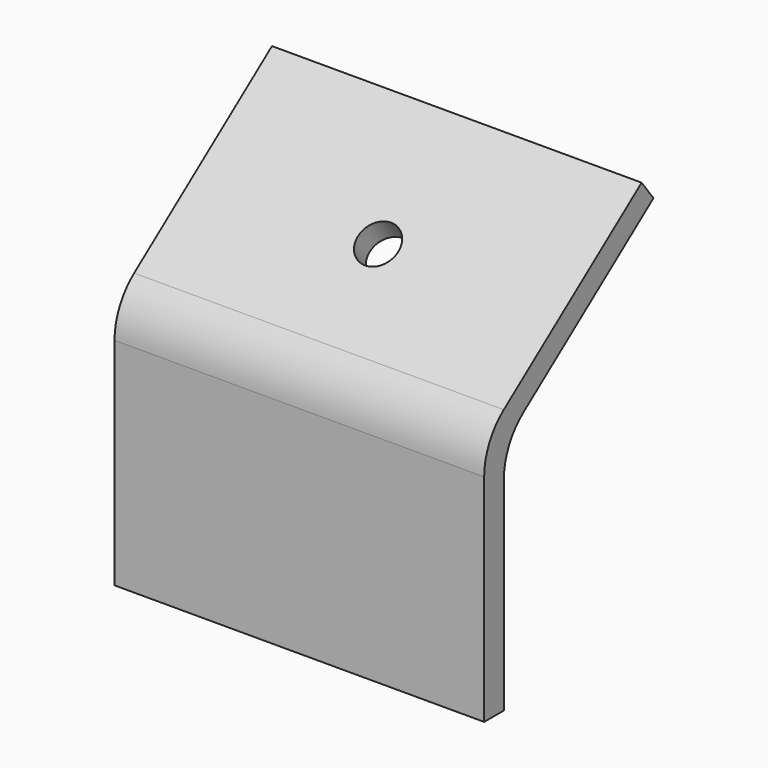
from build123d import *

# Parameters (mm, degrees)
F1_DEPTH = 30
F3_D     = 3.3
F4_R     = 5


with BuildPart() as f1:
    # F0 (on Right) → F1 (new body)
    with BuildSketch(Plane.YZ):
        Polygon((-15.9727102009, 16.1656831887), (-15.9727102009, -3.8343168113), (-13.9727102009, -3.8343168113), (-13.9727102009, 15.1685199726), (1.2036300463, 26.6047126317), (0, 28.2019836518), align=None)
    extrude(amount=F1_DEPTH)

    # F3 (through all)
    with Locations(Plane(origin=(0, -13.554743317, 17.9877519272), x_dir=(1, 0, 0), z_dir=(0, -0.6018150232, 0.79863551))):
        with Locations((15, 6.9723774443)):
            Hole(F3_D / 2)

    # F4
    f4_edges = [f1.edges().sort_by_distance(p)[0] for p in [
        (15, -15.97271, 16.165683),
        (15, -13.97271, 15.16852),
    ]]
    fillet(f4_edges, radius=F4_R)


solid = f1.part
